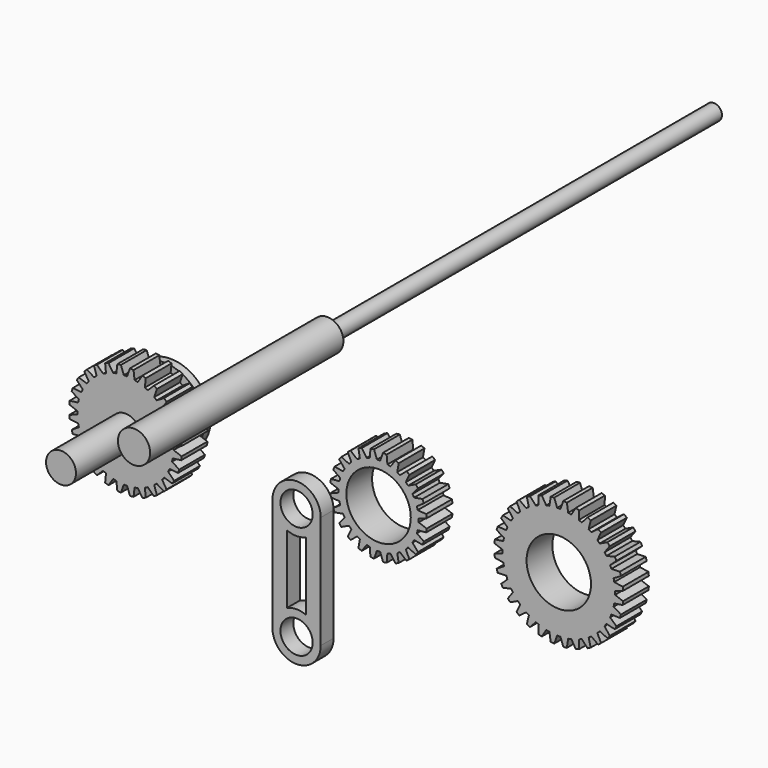
from build123d import *

# Parameters (mm, degrees)
F0_R      = 15
F0_R_2    = 10
F1_DEPTH  = 10
F3_DEPTH  = 25
F4_COUNT  = 24
F5_R      = 12.5
F6_DEPTH  = 2.5
F7_R      = 5
F8_DEPTH  = 5
F9_R      = 17.5
F9_R_2    = 5
F10_DEPTH = 10
F12_DEPTH = 25
F13_COUNT = 28
F14_R     = 4.6433548323
F15_DEPTH = 25
F16_R     = 20
F16_R_2   = 10
F17_DEPTH = 10
F19_DEPTH = 25
F20_COUNT = 32
F21_R     = 5
F22_DEPTH = 75
F23_R     = 2.5
F24_DEPTH = 150
F25_R     = 5
F26_DEPTH = 5


with BuildPart() as f1:
    # F0 (on Front) → F1 (new body)
    with BuildSketch(Plane.XZ):
        Circle(F0_R)
        Circle(F0_R_2, mode=Mode.SUBTRACT)
    extrude(amount=F1_DEPTH)

    # F2 (on face) → F3 (cut)
    with BuildSketch(Plane.XZ.offset(10)):
        with BuildLine():
            Line((-0.5, 12.45), (0, 12.45))
            Line((0, 12.45), (0.5, 12.45))
            Line((0.5, 12.45), (1.4041508587, 14.9341340682))
            ThreePointArc((1.4041508587, 14.9341340682), (0, 15), (-1.4041508587, 14.9341340682))
            Line((-1.4041508587, 14.9341340682), (-0.5, 12.45))
        make_face()
    f3 = extrude(amount=-F3_DEPTH, mode=Mode.SUBTRACT)

    # F4: F3 ×24 about axis
    f4_axis = Axis((0, 0, 0), (0, 1, 0))
    for i in range(1, F4_COUNT):
        add(f3.rotate(f4_axis, i * 360 / F4_COUNT), mode=Mode.SUBTRACT)


with BuildPart() as f6:
    # F5 (on Front) → F6 (new body)
    with BuildSketch(Plane.XZ):
        with Locations((-72.5714335908, 0)):
            Circle(F5_R)
    extrude(amount=F6_DEPTH)


with BuildPart() as f8:
    # F7 (on face) → F8 (new body)
    with BuildSketch(Plane.XZ.offset(2.5)):
        with Locations((-72.5714335908, 0)):
            Circle(F7_R)
    extrude(amount=F8_DEPTH)

    # F9 (on face) → F10 (join)
    with BuildSketch(Plane.XZ.offset(7.5)):
        with Locations((-72.5714335908, 0)):
            Circle(F9_R)
        with Locations((-72.5714335908, 0)):
            Circle(F9_R_2, mode=Mode.SUBTRACT)
        with Locations((-72.5714335908, 0)):
            Circle(F9_R_2)
    extrude(amount=F10_DEPTH)

    # F11 (on face) → F12 (cut)
    with BuildSketch(Plane.XZ.offset(17.5)):
        with BuildLine():
            Line((-73.0714335908, 14.95), (-72.5714335908, 14.95))
            Line((-72.5714335908, 14.95), (-72.0714335908, 14.95))
            Line((-72.0714335908, 14.95), (-71.1639439149, 17.4433073932))
            ThreePointArc((-71.1639439149, 17.4433073932), (-72.5714335908, 17.5), (-73.9789232668, 17.4433073932))
            Line((-73.9789232668, 17.4433073932), (-73.0714335908, 14.95))
        make_face()
    f12 = extrude(amount=-F12_DEPTH, mode=Mode.SUBTRACT)

    # F13: F12 ×28 about axis
    f13_axis = Axis((-72.5714335908, -7.5, 0), (0, 1, 0))
    for i in range(1, F13_COUNT):
        add(f12.rotate(f13_axis, i * 360 / F13_COUNT), mode=Mode.SUBTRACT)

    # F14 (on face) → F15 (join)
    with BuildSketch(Plane.XZ.offset(17.5)):
        with Locations((-72.5714335908, 0)):
            Circle(F14_R)
    extrude(amount=F15_DEPTH)


with BuildPart() as f17:
    # F16 (on Front) → F17 (new body)
    with BuildSketch(Plane.XZ):
        with Locations((55.9446658143, 0)):
            Circle(F16_R)
        with Locations((55.9446658143, 0)):
            Circle(F16_R_2, mode=Mode.SUBTRACT)
    extrude(amount=F17_DEPTH)

    # F18 (on face) → F19 (cut)
    with BuildSketch(Plane.XZ.offset(10)):
        with BuildLine():
            Line((55.4446658143, 17.45), (55.9446658143, 17.45))
            Line((55.9446658143, 17.45), (56.4446658143, 17.45))
            Line((56.4446658143, 17.45), (57.3546768626, 19.9502348067))
            ThreePointArc((57.3546768626, 19.9502348067), (55.9446658143, 20), (54.534654766, 19.9502348067))
            Line((54.534654766, 19.9502348067), (55.4446658143, 17.45))
        make_face()
    f19 = extrude(amount=-F19_DEPTH, mode=Mode.SUBTRACT)

    # F20: F19 ×32 about axis
    f20_axis = Axis((55.9446658143, 0, 0), (0, 1, 0))
    for i in range(1, F20_COUNT):
        add(f19.rotate(f20_axis, i * 360 / F20_COUNT), mode=Mode.SUBTRACT)


with BuildPart() as f22:
    # F21 (on Front) → F22 (new body)
    with BuildSketch(Plane.XZ):
        with Locations((-23.9100735635, 34.7365811467)):
            Circle(F21_R)
    extrude(amount=F22_DEPTH)

    # F23 (on face) → F24 (join)
    with BuildSketch(Plane(origin=(0, 0, 0), x_dir=(-1, 0, 0), z_dir=(0, 1, 0))):
        with Locations((23.9100735635, 34.7365811467)):
            Circle(F23_R)
    extrude(amount=F24_DEPTH)


with BuildPart() as f26:
    # F25 (on Front) → F26 (new body)
    with BuildSketch(Plane.XZ):
        with BuildLine():
            ThreePointArc((-32.4522196054, -19.2816582862), (-35.7271698045, -16.5157139251), (-36.9522196054, -12.4077947438))
            Line((-36.9522196054, -12.4077947438), (-36.9522196054, -47.4077947438))
            ThreePointArc((-36.9522196054, -47.4077947438), (-35.7271698045, -43.2998755625), (-32.4522196054, -40.5339312013))
            Line((-32.4522196054, -40.5339312013), (-32.4522196054, -39.9077947438))
            Line((-32.4522196054, -39.9077947438), (-32.4522196054, -19.9077947438))
            Line((-32.4522196054, -19.9077947438), (-32.4522196054, -19.2816582862))
        make_face()
        with BuildLine():
            Line((-21.9522196054, -47.4077947438), (-21.9522196054, -12.4077947438))
            ThreePointArc((-21.9522196054, -12.4077947438), (-23.1772694064, -16.5157139251), (-26.4522196054, -19.2816582862))
            Line((-26.4522196054, -19.2816582862), (-26.4522196054, -19.9077947438))
            Line((-26.4522196054, -19.9077947438), (-26.4522196054, -40.5339312013))
            ThreePointArc((-26.4522196054, -40.5339312013), (-23.1772694064, -43.2998755625), (-21.9522196054, -47.4077947438))
        make_face()
        with BuildLine():
            ThreePointArc((-36.9522196054, -47.4077947438), (-29.4522196054, -54.9077947438), (-21.9522196054, -47.4077947438))
            ThreePointArc((-21.9522196054, -47.4077947438), (-23.1772694064, -43.2998755625), (-26.4522196054, -40.5339312013))
            ThreePointArc((-26.4522196054, -40.5339312013), (-29.4522196054, -39.9077947438), (-32.4522196054, -40.5339312013))
            ThreePointArc((-32.4522196054, -40.5339312013), (-35.7271698045, -43.2998755625), (-36.9522196054, -47.4077947438))
        make_face()
        with Locations((-29.4522196054, -47.4077947438)):
            Circle(F25_R, mode=Mode.SUBTRACT)
        with BuildLine():
            ThreePointArc((-26.4522196054, -19.2816582862), (-23.1772694064, -16.5157139251), (-21.9522196054, -12.4077947438))
            ThreePointArc((-21.9522196054, -12.4077947438), (-29.4522196054, -4.9077947438), (-36.9522196054, -12.4077947438))
            ThreePointArc((-36.9522196054, -12.4077947438), (-35.7271698045, -16.5157139251), (-32.4522196054, -19.2816582862))
            ThreePointArc((-32.4522196054, -19.2816582862), (-29.4522196054, -19.9077947438), (-26.4522196054, -19.2816582862))
        make_face()
        with Locations((-29.4522196054, -12.4077947438)):
            Circle(F25_R, mode=Mode.SUBTRACT)
    extrude(amount=F26_DEPTH)


solid = Compound([f1.part, f6.part, f8.part, f17.part, f22.part, f26.part])
